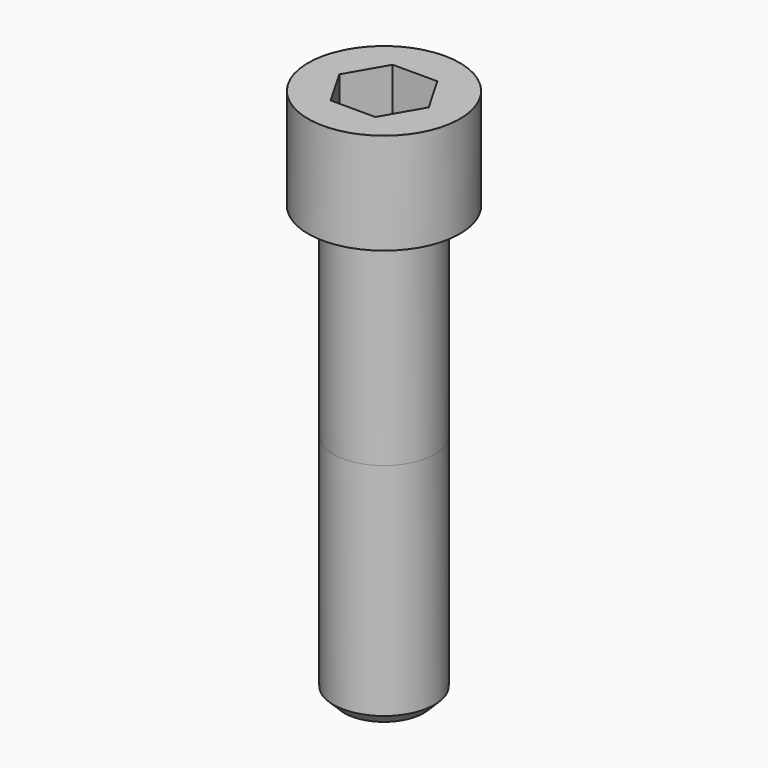
from build123d import *

# Parameters (mm, degrees)
POCKET_DEPTH = 32.15


with BuildPart() as part:
    # Sketch → Revolve (revolve)
    with BuildSketch(Plane.YZ):
        with BuildLine():
            Line((20.999, 0), (31.5, 0))
            Line((31.5, 0), (31.5, 41.97229))
            ThreePointArc((31.5, 41.97229), (31.491884, 41.991884), (31.47229, 42))
            Line((31.47229, 42), (0, 42))
            Line((0, -180), (0, 42))
            Line((16.5, -180), (0, -180))
            Line((21, -175.5), (16.5, -180))
            Line((21, -84), (21, -175.5))
            Line((20.999, 0), (21, -84))
        make_face()
    revolve(axis=Axis((0, 0, 0), (0, 0, 1)))

    # Sketch001 → Pocket (cut)
    with BuildSketch(Plane.XY.offset(42)):
        Polygon((18.561811, 0), (9.280906, 16.075), (-9.280906, 16.075), (-18.561811, 0), (-9.280906, -16.075), (9.280906, -16.075), align=None)
    extrude(amount=-POCKET_DEPTH, mode=Mode.SUBTRACT)


solid = part.part
